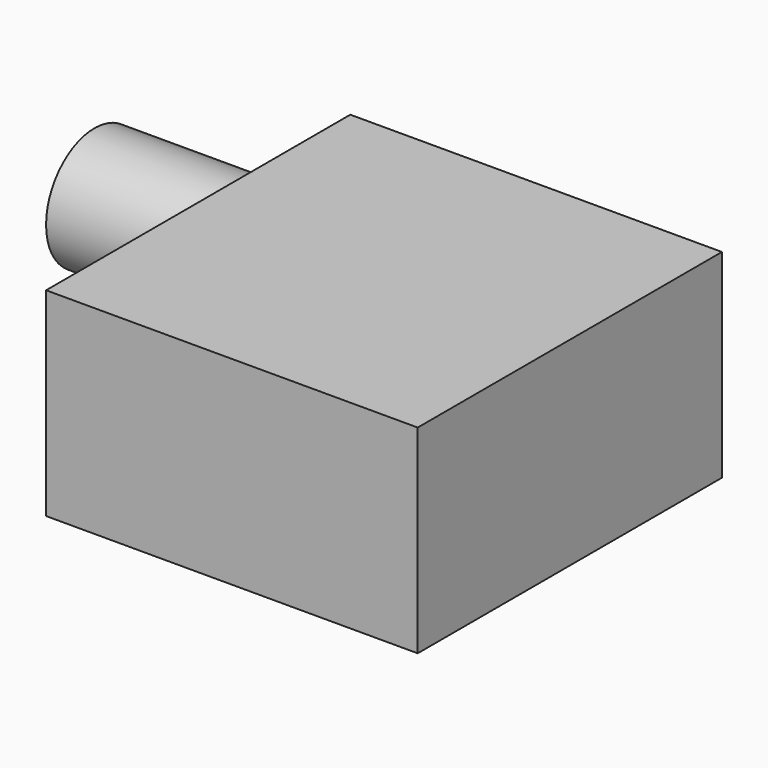
from build123d import *

# Parameters (mm, degrees)
SKETCH009_W             = 44
SKETCH009_H             = 43
PAD006_DEPTH            = 23
SKETCH010_R             = 7
PAD007_DEPTH            = 20
SKETCH011_W             = 8
SKETCH011_H             = 3
POCKET002_DEPTH         = 5
BODY005_PLACEMENT_ANGLE = -90


with BuildPart() as part:
    # Sketch009 → Pad006 (new body)
    with BuildSketch(Plane.XY):
        with Locations((22, 21.5)):
            Rectangle(SKETCH009_W, SKETCH009_H)
    extrude(amount=PAD006_DEPTH)

    # Sketch010 (on Face1 of Pad006) → Pad007 (join)
    with BuildSketch(Plane.XZ):
        with Locations((12, 13)):
            Circle(SKETCH010_R)
    extrude(amount=PAD007_DEPTH)

    # Sketch011 (on Face3 of Pad007) → Pocket002 (cut)
    with BuildSketch(Plane.XZ):
        with Locations((35, 7.5)):
            Rectangle(SKETCH011_W, SKETCH011_H)
    extrude(amount=-POCKET002_DEPTH, mode=Mode.SUBTRACT)


with BuildPart() as part_1:
    # Body005 placement: moved
    add(part.part.moved(Location((1, 248, -23.2))).rotate(Axis((1, 248, -23.2), (0, 0, 1)), BODY005_PLACEMENT_ANGLE))


solid = part_1.part
